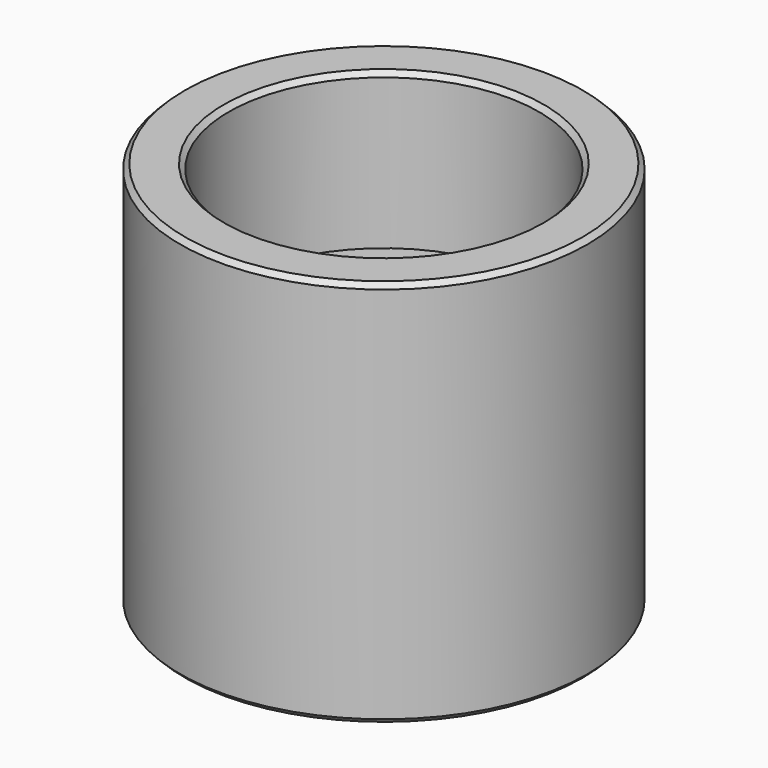
from build123d import *

# Parameters (mm, degrees)
F0_R     = 21
F0_R_2   = 12.5
F1_DEPTH = 40
F2_R     = 16
F3_DEPTH = 16
F4_R     = 16
F4_R_2   = 12.5
F5_DEPTH = 16
F6_SIZE  = 0.5


with BuildPart() as f1:
    # F0 (on Top) → F1 (new body)
    with BuildSketch(Plane.XY):
        Circle(F0_R)
        Circle(F0_R_2, mode=Mode.SUBTRACT)
    extrude(amount=F1_DEPTH)

    # F2 (on face) → F3 (cut)
    with BuildSketch(Plane.XY.offset(40)):
        Circle(F2_R)
    extrude(amount=-F3_DEPTH, mode=Mode.SUBTRACT)

    # F4 (on face) → F5 (cut)
    with BuildSketch(Plane(origin=(0, 0, 0), x_dir=(1, 0, 0), z_dir=(0, 0, -1))):
        Circle(F4_R)
        Circle(F4_R_2, mode=Mode.SUBTRACT)
    extrude(amount=-F5_DEPTH, mode=Mode.SUBTRACT)

    # F6
    f6_edges = [f1.edges().sort_by_distance(p)[0] for p in [
        (-21, 0, 0),
        (-16, 0, 0),
        (-21, 0, 40),
        (-16, 0, 40),
    ]]
    chamfer(f6_edges, length=F6_SIZE)


solid = f1.part
